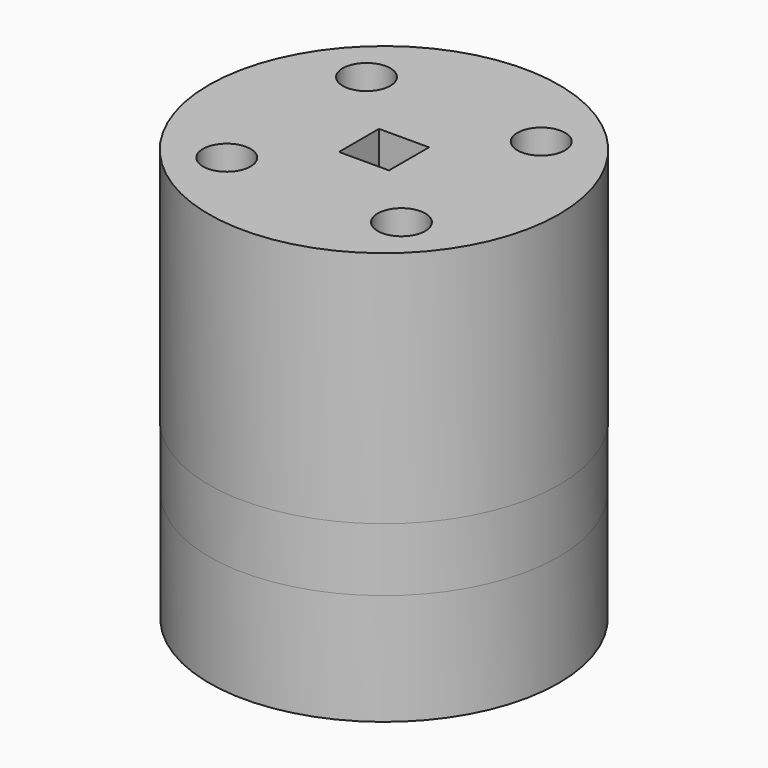
from build123d import *

# Parameters (mm, degrees)
F0_R     = 11
F0_R_2   = 1.5
F0_R_3   = 4
F1_DEPTH = 7
F0_R_4   = 3
F2_DEPTH = 10
F3_R     = 11
F3_R_2   = 1.5
F3_R_3   = 4
F4_DEPTH = 4
F5_R     = 11.02763
F6_DEPTH = 15
F7_W     = 3.15
F7_H     = 3.15
F8_DEPTH = 16.3
F5_R_2   = 1.5
F9_DEPTH = 46.4


with BuildPart() as f1:
    # F0 (on Top) → F1 (new body)
    with BuildSketch(Plane.XY):
        Circle(F0_R)
        with Locations((-5.5, -5.5)):
            Circle(F0_R_2, mode=Mode.SUBTRACT)
        with Locations((5.5, -5.5)):
            Circle(F0_R_2, mode=Mode.SUBTRACT)
        with Locations((-5.5, 5.5)):
            Circle(F0_R_2, mode=Mode.SUBTRACT)
        Circle(F0_R_3, mode=Mode.SUBTRACT)
        with Locations((5.5, 5.5)):
            Circle(F0_R_2, mode=Mode.SUBTRACT)
    extrude(amount=F1_DEPTH)

    # F0 (on Top) → F2 (join)
    with BuildSketch(Plane.XY):
        Circle(F0_R_3)
        Circle(F0_R_4, mode=Mode.SUBTRACT)
    extrude(amount=F2_DEPTH)


with BuildPart() as f4:
    # F3 (on face) → F4 (new body)
    with BuildSketch(Plane.XY.offset(7)):
        Circle(F3_R)
        with Locations((-5.5, -5.5)):
            Circle(F3_R_2, mode=Mode.SUBTRACT)
        with Locations((5.5, -5.5)):
            Circle(F3_R_2, mode=Mode.SUBTRACT)
        with Locations((-5.5, 5.5)):
            Circle(F3_R_2, mode=Mode.SUBTRACT)
        Circle(F3_R_3, mode=Mode.SUBTRACT)
        with Locations((5.5, 5.5)):
            Circle(F3_R_2, mode=Mode.SUBTRACT)
    extrude(amount=F4_DEPTH)

    # F5 (on face) → F6 (join)
    with BuildSketch(Plane.XY.offset(11)):
        Circle(F5_R)
    extrude(amount=F6_DEPTH)

    # F7 (on face) → F8 (cut)
    with BuildSketch(Plane.XY.offset(26)):
        Rectangle(F7_W, F7_H)
    extrude(amount=-F8_DEPTH, mode=Mode.SUBTRACT)

    # F5 (on face) → F9 (cut)
    with BuildSketch(Plane.XY.offset(11)):
        with Locations((-5.5, 5.5)):
            Circle(F5_R_2)
        with Locations((5.5, 5.5)):
            Circle(F5_R_2)
        with Locations((5.5, -5.5)):
            Circle(F5_R_2)
        with Locations((-5.5, -5.5)):
            Circle(F5_R_2)
    extrude(amount=F9_DEPTH, mode=Mode.SUBTRACT)


solid = Compound([f1.part, f4.part])
